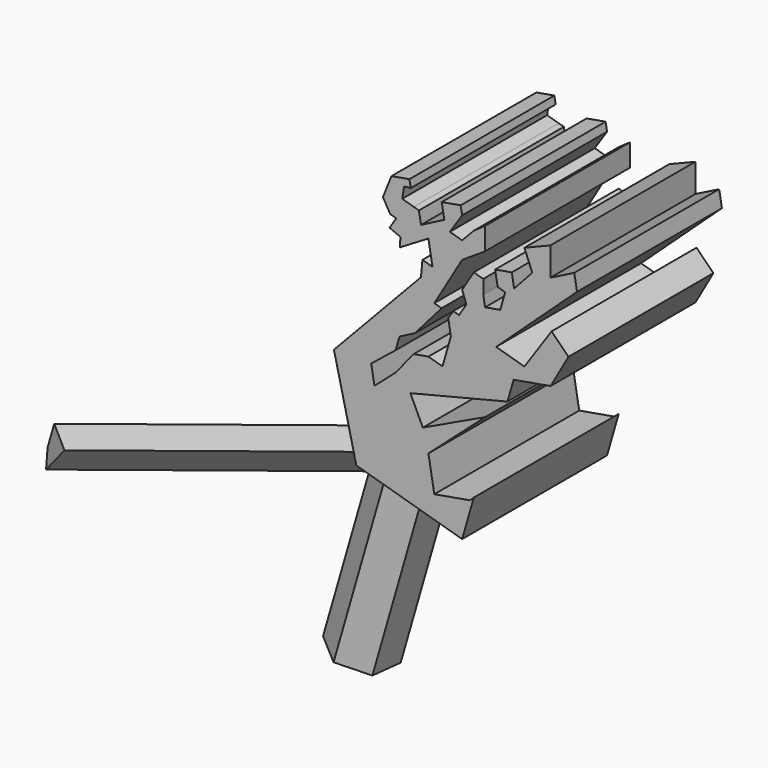
from build123d import *

# Parameters (mm, degrees)
F1_DEPTH = 101.6
F3_DEPTH = 177.8
F5_DEPTH = 152.4


with BuildPart() as f1:
    # F0 (on Front) → F1 (new body)
    with BuildSketch(Plane.XZ):
        Polygon((-68.0546009286, 70.9724547934), (-68.8429325819, 62.1956735849), (-117.6773235202, 10.4552125558), (-105.1295995712, -42.5568968058), (-45.7822419703, -59.6766918898), (-39.2410605975, -37.0010799353), (-41.3735844195, -39.0737466514), (-61.3821223378, -42.5568968058), (-64.6995217924, -23.5004938845), (-32.8953899443, 4.7472813167), (-67.8255409002, -11.7796100676), (-74.7957791542, 2.9522271998), (-20.3476604074, 16.5085699409), (-16.9085729051, 28.4304857593), (3.830497367, 32.0408093179), (13.9042371884, 49.7960522771), (4.4086603448, 59.2635124922), (-10.8520854264, 36.8843413889), (-26.7054904199, 41.4575364871), (18.6520200223, 83.3837464452), (17.106715133, 92.2605648714), (3.7304037251, 85.5196863413), (3.7304037251, 101.45868361), (-10.8520863578, 95.5534428358), (-6.4400576502, 84.6583130124), (-16.617262736, 73.5415220261), (-17.9333650136, 81.1017135653), (-27.2746733877, 79.4755487832), (-25.8564880808, 71.3289535374), (-21.6212702161, 70.1072300284), (-24.4007783182, 60.47180738), (-32.8953899443, 58.9930382707), (-33.9227040795, 64.8943209937), (-33.9227040795, 72.6707279682), (-39.2410605975, 74.2049019812), (-45.7822419703, 63.4266734123), (-43.4083491564, 56.9902732968), (-47.4778786302, 50.3894537687), (-50.693112243, 51.316944778), (-53.5821802914, 46.9316542149), (-52.0876118716, 38.3462853462), (-56.7973518724, 22.0195347828), (-64.6995217924, 24.2990554762), (-72.941155196, 22.8643256234), (-83.0862894654, 10.4552125558), (-94.9557647109, 0), (-96.7758414889, 10.4552125558), (-83.086296916, 21.4581619948), (-80.9255126919, 28.9487209306), (-72.2342133522, 33.4082171321), (-57.3125816882, 50.6025739014), (-61.3821223378, 51.7765048871), (-45.7822419703, 78.2433673739), (-32.8953899443, 86.6274237633), (-32.8953899443, 99.1751477122), (-39.2410605975, 94.7383791208), (-45.7822419703, 87.8438726068), (-52.6642583037, 89.8291119528), (-45.7822419703, 100.1957952976), (-46.597825649, 104.8808178314), (-57.2296397348, 103.0299976952), (-55.7862083039, 94.7383791208), (-68.8429251313, 87.9693776369), (-70.0212945184, 94.7383791208), (-72.8908556805, 95.5661547972), (-79.3695133472, 97.4350382008), (-78.3385112882, 103.880263865), (-74.6080949903, 104.2788848281), (-75.3332955202, 108.4447122138), (-85.4214119311, 106.6885407045), (-90.2079790831, 94.7383791208), (-86.1384421587, 87.7243876457), (-82.747168839, 86.6685807705), (-86.4775627851, 80.8439254761), (-80.3732648492, 78.2433673739), (-80.7123929262, 73.0126127601), (-64.6995217924, 82.6028212905), (-62.3904306977, 69.3385246979), align=None)
    extrude(amount=F1_DEPTH)


with BuildPart() as f3:
    # F2 (on face) → F3 (new body)
    with BuildSketch(Plane(origin=(-19.4093784947, 0, -67.2844108638), x_dir=(0.9608220175, 0, -0.2771661067), z_dir=(-0.2771661067, 0, -0.9608220175))):
        Polygon((-125.4117596467, 12.491473315), (-140.1702057998, 2.145793902), (-138.5898076853, -15.8082350934), (-122.2509634177, -23.4165846758), (-107.4925172647, -13.0709052629), (-109.0729153791, 4.8831237325), align=None)
    extrude(amount=F3_DEPTH)

    # F4 (on face) → F5 (join)
    with BuildSketch(Plane(origin=(-45.344312599, -67.3226952588, 13.080369056), x_dir=(0.8341593789, -0.5413992144, 0.1051904043), z_dir=(-0.5515234633, -0.8188468171, 0.1590966988))):
        Polygon((-152.5998369917, -105.7350730714), (-133.0087228552, -89.5904654446), (-149.7423447495, -83.3310866593), (-154.2203182673, -96.0423000966), align=None)
    extrude(amount=F5_DEPTH)


solid = Compound([f1.part, f3.part])
